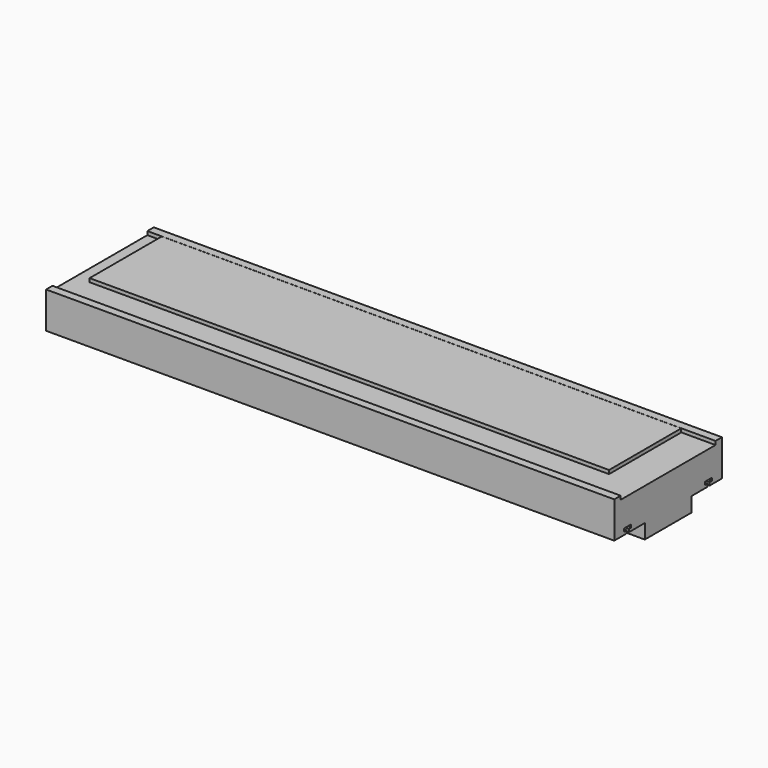
from build123d import *

# Parameters (mm, degrees)
F0_W     = 80
F0_H     = 20
F1_DEPTH = 390.5
F2_W     = 781
F2_H     = 163
F3_DEPTH = 5
F4_W     = 714
F4_H     = 124
F5_DEPTH = 5


with BuildPart() as f1:
    # F0 (on Right) → F1 (new body, symmetric)
    with BuildSketch(Plane.YZ):
        Polygon((-92.5, 50), (-92.5, 0), (-71.5, 0), (-71.5, 4), (-75.5, 4), (-75.5, 8), (-63.5, 8), (-63.5, 4), (-67.5, 4), (-67.5, 0), (-40, 0), (40, 0), (67.5, 0), (67.5, 4), (63.5, 4), (63.5, 8), (75.5, 8), (75.5, 4), (71.5, 4), (71.5, 0), (92.5, 0), (92.5, 50), align=None)
        with Locations((0, -10)):
            Rectangle(F0_W, F0_H)
    extrude(amount=F1_DEPTH, both=True)

    # F2 (on face) → F3 (cut)
    with BuildSketch(Plane.XY.offset(50)):
        Rectangle(F2_W, F2_H)
    extrude(amount=-F3_DEPTH, mode=Mode.SUBTRACT)

    # F4 (on face) → F5 (join)
    with BuildSketch(Plane.XY.offset(45)):
        with Locations((-13.5, 19.3)):
            Rectangle(F4_W, F4_H)
    extrude(amount=F5_DEPTH)


solid = f1.part
